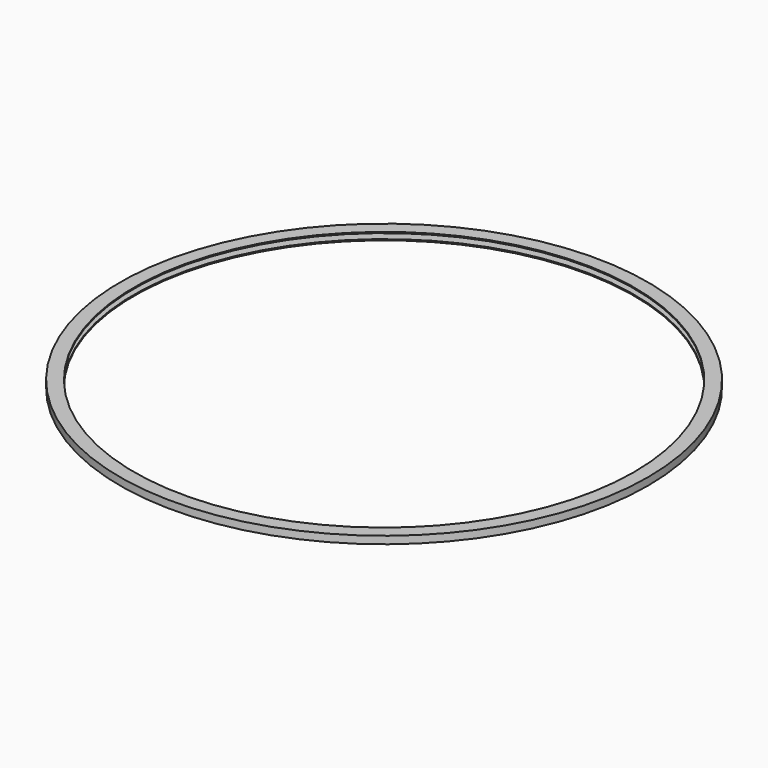
from build123d import *

# Parameters (mm, degrees)
F0_R     = 60.254
F0_R_2   = 57.079
F1_DEPTH = 0.854
F2_R     = 60
F3_DEPTH = 0.6


with BuildPart() as f1:
    # F0 (on Top) → F1 (new body, symmetric)
    with BuildSketch(Plane.XY):
        Circle(F0_R)
        Circle(F0_R_2, mode=Mode.SUBTRACT)
    extrude(amount=F1_DEPTH, both=True)

    # F2 (on Top) → F3 (cut, symmetric)
    with BuildSketch(Plane.XY):
        Circle(F2_R)
    extrude(amount=F3_DEPTH, both=True, mode=Mode.SUBTRACT)


solid = f1.part
